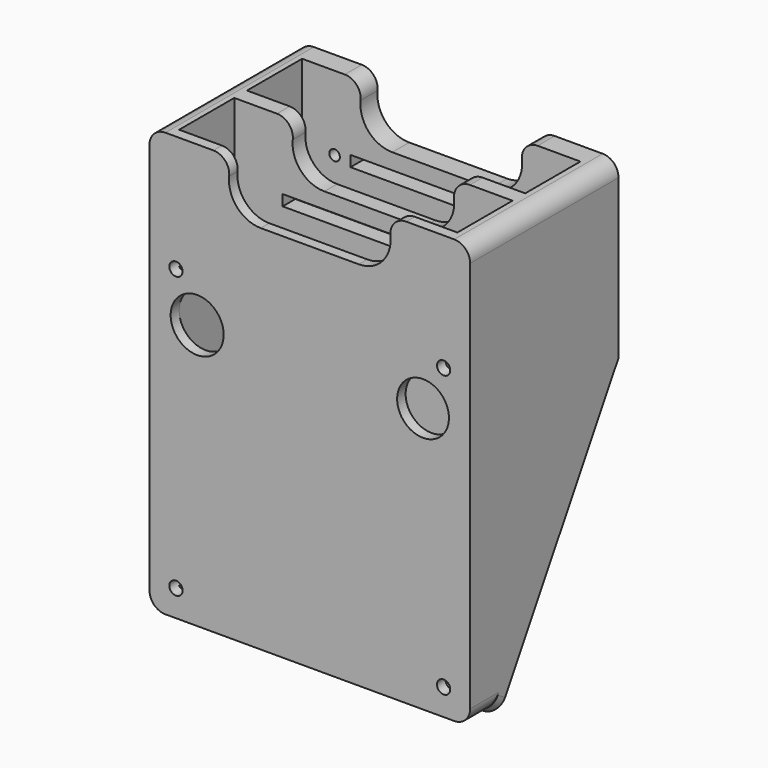
from build123d import *

# Parameters (mm, degrees)
F0_W            = 60.5
F0_H            = 63
F0_R            = 1.5
F1_DEPTH        = 35
F2_W            = 12.527864045
F2_H            = 13
F2_W_2          = 39.972135955
F3_DEPTH        = 80
F4_R            = 3
F5_R            = 5
F5_R_2          = 4.885736735
F6_DEPTH        = 32
F8_DEPTH        = 34
F9_D            = 2
F9_DEPTH        = 5
F9_CBORE_D      = 5
F9_CBORE_DEPTH  = 0
F9_TIP          = 0.600860619
F11_DEPTH       = 70
F13_DEPTH       = 2
F14_W           = 52.5
F14_H           = 13
F14_W_2         = 60.5
F14_H_2         = 3.8759431336
F15_DEPTH       = 85
F16_D           = 2.5
F16_CBORE_D     = 5
F16_CBORE_DEPTH = 32


with BuildPart() as f1:
    # F0 (on Front) → F1 (new body)
    with BuildSketch(Plane.XZ):
        with Locations((30.25, 31.5)):
            Rectangle(F0_W, F0_H)
        with Locations((5, 5)):
            Circle(F0_R, mode=Mode.SUBTRACT)
        with Locations((55.5, 5)):
            Circle(F0_R, mode=Mode.SUBTRACT)
        with Locations((5, 58)):
            Circle(F0_R, mode=Mode.SUBTRACT)
        with Locations((55.5, 58)):
            Circle(F0_R, mode=Mode.SUBTRACT)
        with BuildLine():
            Line((0, 80), (0, 63))
            Line((0, 63), (60.5, 63))
            Line((60.5, 63), (60.5, 80))
            Line((60.5, 80), (43.972135955, 80))
            ThreePointArc((43.972135955, 80), (45.1050341538, 78.1409325386), (45.5, 76))
            ThreePointArc((45.5, 76), (43.7426406871, 71.7573593129), (39.5, 70))
            Line((39.5, 70), (21, 70))
            ThreePointArc((21, 70), (15.5227744249, 73.5505102572), (16.527864045, 80))
            Line((16.527864045, 80), (0, 80))
        make_face()
        with Locations((5, 58)):
            Circle(F0_R)
        with Locations((5, 5)):
            Circle(F0_R)
        with Locations((55.5, 5)):
            Circle(F0_R)
        with Locations((55.5, 58)):
            Circle(F0_R)
    extrude(amount=F1_DEPTH)

    # F2 (on face) → F3 (cut)
    with BuildSketch(Plane.XY.offset(80)):
        with Locations((10.2639320225, -10.5)):
            Rectangle(F2_W, F2_H)
        with Locations((36.5139320225, -10.5)):
            Rectangle(F2_W_2, F2_H)
    extrude(amount=-F3_DEPTH, mode=Mode.SUBTRACT)

    # F4
    f4_edges = [f1.edges().sort_by_distance(p)[0] for p in [
        (60.5, -17.5, 80),
        (0, -17.5, 80),
        (0, -17.5, 0),
        (60.5, -17.5, 0),
        (16.527864, -26, 80),
        (43.972136, -26, 80),
        (43.972136, -2, 80),
        (16.527864, -2, 80),
    ]]
    fillet(f4_edges, radius=F4_R)

    # F5 (on face) → F6 (cut)
    with BuildSketch(Plane.XZ.offset(35)):
        with Locations((9, 50)):
            Circle(F5_R)
        with Locations((51.614263265, 50)):
            Circle(F5_R_2)
    extrude(amount=-F6_DEPTH, mode=Mode.SUBTRACT)

    # F7 (on face) → F8 (cut)
    with BuildSketch(Plane.XZ):
        Polygon((13.125, 65.975), (13.125, 64.95), (48.125, 64.95), (48.125, 65.975), (48.125, 67), (13.125, 67), align=None)
    extrude(amount=F8_DEPTH, mode=Mode.SUBTRACT)

    # F9
    with Locations(Plane(origin=(0, 0, 0), x_dir=(1, 0, 0), z_dir=(0, 1, 0))):
        with Locations((51.125, -65.975), (10.125, -65.975)):
            CounterBoreHole(F9_D / 2, F9_CBORE_D / 2, F9_CBORE_DEPTH, depth=F9_DEPTH)
            with Locations((0, 0, -(F9_DEPTH + F9_TIP / 2))):  # 118° drill point
                Cone(0, F9_D / 2, F9_TIP, mode=Mode.SUBTRACT)

    # F10 (on face) → F11 (cut)
    with BuildSketch(Plane.YZ.offset(60.5)):
        Polygon((-28.2352941176, 3), (0, 3), (0, 51), align=None)
        Polygon((-30, 0), (0, 0), (0, 3), (-28.2352941176, 3), align=None)
    extrude(amount=-F11_DEPTH, mode=Mode.SUBTRACT)

    # F12 (on face) → F13 (join)
    with BuildSketch(Plane(origin=(0, -22.2879177378, 13.1105398458), x_dir=(-1, 0, 0), z_dir=(0, 0.8619342152, -0.5070201266))):
        with BuildLine():
            Line((0, 43.958644973), (-60.5, 43.958644973))
            Line((-60.5, 43.958644973), (-60.5, -12.2106037969))
            ThreePointArc((-60.5, -12.2106037969), (-59.6213203436, -14.3319241405), (-57.5, -15.2106037969))
            Line((-57.5, -15.2106037969), (-3, -15.2106037969))
            ThreePointArc((-3, -15.2106037969), (-0.8786796564, -14.3319241405), (0, -12.2106037969))
            Line((0, -12.2106037969), (0, -11.7300597516))
            Line((0, -11.7300597516), (0, 43.958644973))
        make_face()
    extrude(amount=F13_DEPTH)

    # F14 (on face) → F15 (cut)
    with BuildSketch(Plane.XY.offset(80)):
        with Locations((30.25, -26.5)):
            Rectangle(F14_W, F14_H)
        with Locations((30.25, 1.9379715668)):
            Rectangle(F14_W_2, F14_H_2)
    extrude(amount=-F15_DEPTH, mode=Mode.SUBTRACT)

    # F16 (through all)
    with Locations(Plane(origin=(0, 0, 0), x_dir=(1, 0, 0), z_dir=(0, 1, 0))):
        with Locations((5, -58), (55.5, -58), (55.5, -5), (5, -5)):
            CounterBoreHole(F16_D / 2, F16_CBORE_D / 2, F16_CBORE_DEPTH)


solid = f1.part
